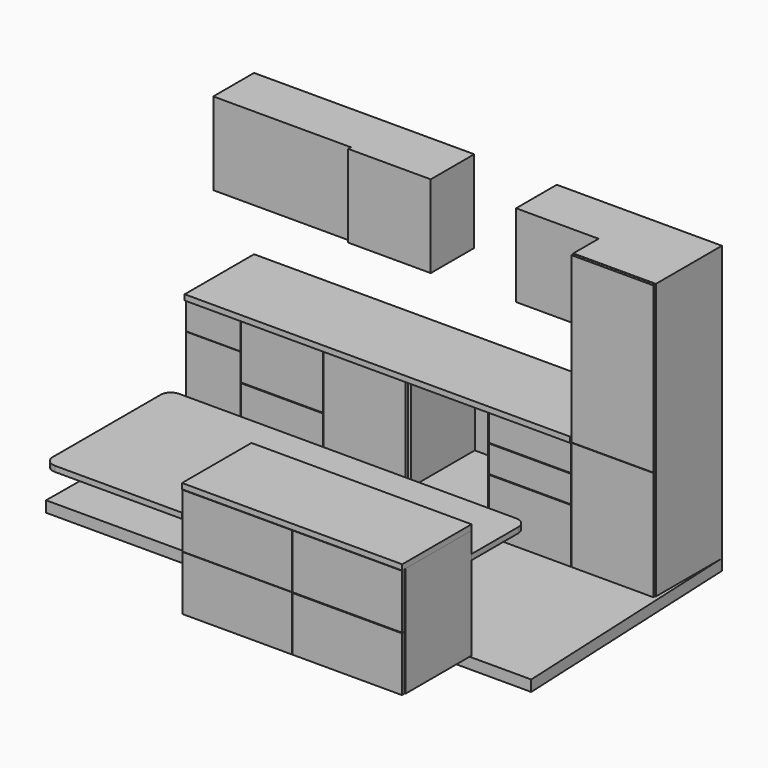
from build123d import *

# Parameters (mm, degrees)
F7_W      = 600
F7_H      = 600
F13_DEPTH = 2000
F8_W      = 600
F8_H      = 600
F14_DEPTH = 800
F9_W      = 600
F9_H      = 600
F15_DEPTH = 800
F10_W     = 600
F10_H     = 600
F16_DEPTH = 800
F11_W     = 600
F11_H     = 600
F17_DEPTH = 800
F12_W     = 400
F12_H     = 600
F18_DEPTH = 800
F23_W     = 400
F23_H     = 370
F24_DEPTH = 1200
F25_W     = 400
F25_H     = 600
F26_DEPTH = 370
F22_W     = 600
F22_H     = 370
F27_DEPTH = 600
F21_W     = 600
F21_H     = 370
F28_DEPTH = 600
F20_W     = 600
F20_H     = 370
F29_DEPTH = 600
F30_DEPTH = 20
F32_DEPTH = 20
F31_W     = 595
F31_H     = 795
F33_DEPTH = 20
F35_DEPTH = 20
F34_W     = 395
F34_H     = 595
F36_DEPTH = 20
F37_W     = 600
F37_H     = 400
F37_W_2   = 595
F37_H_2   = 395
F38_DEPTH = 20
F39_DEPTH = 20
F40_W     = 600
F40_H     = 800
F40_W_2   = 595
F40_H_2   = 795
F41_DEPTH = 20
F42_W     = 600
F42_H     = 400
F42_W_2   = 595
F42_H_2   = 395
F43_DEPTH = 20
F44_W     = 600
F44_H     = 200
F44_W_2   = 595
F44_H_2   = 195
F45_DEPTH = 20
F46_W     = 600
F46_H     = 200
F46_W_2   = 595
F46_H_2   = 195
F47_DEPTH = 20
F48_W     = 600
F48_H     = 100
F48_W_2   = 595
F48_H_2   = 95
F49_DEPTH = 20
F50_W     = 600
F50_H     = 700
F50_W_2   = 560
F50_H_2   = 660
F51_DEPTH = 20
F52_DEPTH = 25
F54_W     = 560
F54_H     = 660
F55_DEPTH = 580
F57_W     = 560
F57_H     = 270
F58_DEPTH = 350
F59_DEPTH = 350
F60_W     = 600
F60_H     = 600
F61_DEPTH = 25
F64_DEPTH = 80
F62_W     = 800
F62_H     = 600
F65_DEPTH = 800
F63_W     = 800
F63_H     = 600
F66_DEPTH = 800
F68_W     = 1600
F68_H     = 800
F69_DEPTH = 25
F70_DEPTH = 20
F71_W     = 800
F71_H     = 400
F71_W_2   = 795
F71_H_2   = 395
F72_DEPTH = 25
F74_DEPTH = 25
F75_W     = 800
F75_H     = 400
F75_W_2   = 795
F75_H_2   = 395
F76_DEPTH = 25
F77_W     = 800
F77_H     = 400
F77_W_2   = 795
F77_H_2   = 395
F78_DEPTH = 25
F80_W     = 2800
F80_H     = 630
F82_DEPTH = 40
F81_W     = 1600
F81_H     = 630
F83_DEPTH = 40
F86_DEPTH = 40


with BuildPart() as f13:
    # F7 (on offset) → F13 (new body)
    with BuildSketch(Plane.XY.offset(80)):
        with Locations((1415.9702295065, -525.4769355059)):
            Rectangle(F7_W, F7_H)
    extrude(amount=F13_DEPTH)

    # F8 (on offset) → F14 (join)
    with BuildSketch(Plane.XY.offset(80)):
        with Locations((815.9702295065, -525.4769355059)):
            Rectangle(F8_W, F8_H)
    extrude(amount=F14_DEPTH)

    # F9 (on offset) → F15 (join)
    with BuildSketch(Plane.XY.offset(80)):
        with Locations((215.9702295065, -525.4769355059)):
            Rectangle(F9_W, F9_H)
    extrude(amount=F15_DEPTH)

    # F10 (on offset) → F16 (join)
    with BuildSketch(Plane.XY.offset(80)):
        with Locations((-384.0297704935, -525.4769355059)):
            Rectangle(F10_W, F10_H)
    extrude(amount=F16_DEPTH)

    # F11 (on offset) → F17 (join)
    with BuildSketch(Plane.XY.offset(80)):
        with Locations((-984.0297704935, -525.4769355059)):
            Rectangle(F11_W, F11_H)
    extrude(amount=F17_DEPTH)

    # F12 (on offset) → F18 (join)
    with BuildSketch(Plane.XY.offset(80)):
        with Locations((-1484.0297704935, -525.4769355059)):
            Rectangle(F12_W, F12_H)
    extrude(amount=F18_DEPTH)

    # F23 (on face) → F24 (join)
    with BuildSketch(Plane.XY.offset(880)):
        with Locations((-1484.0297704935, -410.4769355059)):
            Rectangle(F23_W, F23_H)
    extrude(amount=F24_DEPTH)

    # F25 (on face) → F26 (cut)
    with BuildSketch(Plane.XZ.offset(595.4769355059)):
        with Locations((-1484.0297704935, 1180)):
            Rectangle(F25_W, F25_H)
    extrude(amount=-F26_DEPTH, mode=Mode.SUBTRACT)

    # F22 (on face) → F27 (join)
    with BuildSketch(Plane.XY.offset(2080)):
        with Locations((-984.0297704935, -410.4769355059)):
            Rectangle(F22_W, F22_H)
    extrude(amount=-F27_DEPTH)

    # F21 (on face) → F28 (join)
    with BuildSketch(Plane.XY.offset(2080)):
        with Locations((-384.0297704935, -410.4769355059)):
            Rectangle(F21_W, F21_H)
    extrude(amount=-F28_DEPTH)

    # F20 (on face) → F29 (join)
    with BuildSketch(Plane.XY.offset(2080)):
        with Locations((815.9702295065, -410.4769355059)):
            Rectangle(F20_W, F20_H)
    extrude(amount=-F29_DEPTH)


with BuildPart() as f30:
    # F30 (new): a face of the model
    f30_faces = [f13.part.faces().sort_by_distance(p)[0] for p in [
        (308.9934853204, -825.4769355059, 689.3023255814),
    ]]
    extrude(f30_faces, amount=F30_DEPTH)

    # F31 (on face) → F32 (cut)
    with BuildSketch(Plane.XZ.offset(845.4769355059)):
        Polygon((1715.9702295065, 880), (1715.9702295065, 2080), (1115.9702295065, 2080), (1115.9702295065, 880), (1118.4702295065, 880), (1118.4702295065, 2077.5), (1713.4702295065, 2077.5), (1713.4702295065, 880), align=None)
    extrude(amount=-F32_DEPTH, mode=Mode.SUBTRACT)

    # F31 (on face) → F33 (cut)
    with BuildSketch(Plane.XZ.offset(845.4769355059)):
        Polygon((1715.9702295065, 80), (1715.9702295065, 880), (1713.4702295065, 880), (1118.4702295065, 880), (1115.9702295065, 880), (1115.9702295065, 80), align=None)
        with Locations((1415.9702295065, 480)):
            Rectangle(F31_W, F31_H, mode=Mode.SUBTRACT)
    extrude(amount=-F33_DEPTH, mode=Mode.SUBTRACT)

    # F34 (on face) → F35 (cut)
    with BuildSketch(Plane.XZ.offset(845.4769355059)):
        Polygon((-1284.0297704935, 880), (-1684.0297704935, 880), (-1684.0297704935, 680), (-1681.5297704935, 680), (-1681.5297704935, 877.5), (-1286.5297704935, 877.5), (-1286.5297704935, 680), (-1284.0297704935, 680), align=None)
    extrude(amount=-F35_DEPTH, mode=Mode.SUBTRACT)

    # F34 (on face) → F36 (cut)
    with BuildSketch(Plane.XZ.offset(845.4769355059)):
        Polygon((-1681.5297704935, 680), (-1684.0297704935, 680), (-1684.0297704935, 80), (-1284.0297704935, 80), (-1284.0297704935, 680), (-1286.5297704935, 680), align=None)
        with Locations((-1484.0297704935, 380)):
            Rectangle(F34_W, F34_H, mode=Mode.SUBTRACT)
    extrude(amount=-F36_DEPTH, mode=Mode.SUBTRACT)

    # F37 (on face) → F38 (cut)
    with BuildSketch(Plane.XZ.offset(845.4769355059)):
        with Locations((-984.0297704935, 680)):
            Rectangle(F37_W, F37_H)
        with Locations((-984.0297704935, 680)):
            Rectangle(F37_W_2, F37_H_2, mode=Mode.SUBTRACT)
    extrude(amount=-F38_DEPTH, mode=Mode.SUBTRACT)

    # F37 (on face) → F39 (cut)
    with BuildSketch(Plane.XZ.offset(845.4769355059)):
        with Locations((-984.0297704935, 280)):
            Rectangle(F37_W, F37_H)
        with Locations((-984.0297704935, 280)):
            Rectangle(F37_W_2, F37_H_2, mode=Mode.SUBTRACT)
    extrude(amount=-F39_DEPTH, mode=Mode.SUBTRACT)

    # F40 (on face) → F41 (cut)
    with BuildSketch(Plane.XZ.offset(845.4769355059)):
        with Locations((-384.0297704935, 480)):
            Rectangle(F40_W, F40_H)
        with Locations((-384.0297704935, 480)):
            Rectangle(F40_W_2, F40_H_2, mode=Mode.SUBTRACT)
    extrude(amount=-F41_DEPTH, mode=Mode.SUBTRACT)

    # F42 (on face) → F43 (cut)
    with BuildSketch(Plane.XZ.offset(845.4769355059)):
        with Locations((815.9702295065, 280)):
            Rectangle(F42_W, F42_H)
        with Locations((815.9702295065, 280)):
            Rectangle(F42_W_2, F42_H_2, mode=Mode.SUBTRACT)
    extrude(amount=-F43_DEPTH, mode=Mode.SUBTRACT)

    # F44 (on face) → F45 (cut)
    with BuildSketch(Plane.XZ.offset(845.4769355059)):
        with Locations((815.9702295065, 580)):
            Rectangle(F44_W, F44_H)
        with Locations((815.9702295065, 580)):
            Rectangle(F44_W_2, F44_H_2, mode=Mode.SUBTRACT)
    extrude(amount=-F45_DEPTH, mode=Mode.SUBTRACT)

    # F46 (on face) → F47 (cut)
    with BuildSketch(Plane.XZ.offset(845.4769355059)):
        with Locations((815.9702295065, 780)):
            Rectangle(F46_W, F46_H)
        with Locations((815.9702295065, 780)):
            Rectangle(F46_W_2, F46_H_2, mode=Mode.SUBTRACT)
    extrude(amount=-F47_DEPTH, mode=Mode.SUBTRACT)

    # F48 (on face) → F49 (cut)
    with BuildSketch(Plane.XZ.offset(845.4769355059)):
        with Locations((215.9702295065, 130)):
            Rectangle(F48_W, F48_H)
        with Locations((215.9702295065, 130)):
            Rectangle(F48_W_2, F48_H_2, mode=Mode.SUBTRACT)
    extrude(amount=-F49_DEPTH, mode=Mode.SUBTRACT)

    # F50 (on face) → F51 (cut)
    with BuildSketch(Plane.XZ.offset(845.4769355059)):
        with Locations((215.9702295065, 530)):
            Rectangle(F50_W, F50_H)
        with Locations((215.9702295065, 530)):
            Rectangle(F50_W_2, F50_H_2, mode=Mode.SUBTRACT)
    extrude(amount=-F51_DEPTH, mode=Mode.SUBTRACT)


with BuildPart() as f52_tool:
    # F50 (on face) → F52 (new body)
    with BuildSketch(Plane.XZ.offset(845.4769355059)):
        with Locations((215.9702295065, 530)):
            Rectangle(F50_W_2, F50_H_2)
    extrude(amount=-F52_DEPTH)


with BuildPart() as f13_1:
    add(f13.part)

    # F52: cut by f52_tool
    add(f52_tool.part, mode=Mode.SUBTRACT)

    # F54 (on offset) → F55 (cut)
    with BuildSketch(Plane.XZ.offset(825.4769355059)):
        with Locations((215.9702295065, 530)):
            Rectangle(F54_W, F54_H)
    extrude(amount=-F55_DEPTH, mode=Mode.SUBTRACT)

    # F57 (on face) → F58 (cut)
    with BuildSketch(Plane.XZ.offset(595.4769355059)):
        with Locations((-384.0297704935, 1925)):
            Rectangle(F57_W, F57_H)
    extrude(amount=-F58_DEPTH, mode=Mode.SUBTRACT)

    # F57 (on face) → F59 (cut)
    with BuildSketch(Plane.XZ.offset(595.4769355059)):
        with Locations((-384.0297704935, 1635)):
            Rectangle(F57_W, F57_H)
    extrude(amount=-F59_DEPTH, mode=Mode.SUBTRACT)

    # F60 (on face) → F61 (join)
    with BuildSketch(Plane.XZ.offset(595.4769355059)):
        with Locations((-384.0297704935, 1780)):
            Rectangle(F60_W, F60_H)
    extrude(amount=F61_DEPTH)

    # F0 (on Top) → F64 (join)
    with BuildSketch(Plane.XY):
        Polygon((1800.7225357622, -2063.5498418479), (1715.9702295065, -225.4769355059), (-1714.0297704935, -225.4769355059), (-1724.7334718704, -2063.5498418479), align=None)
    extrude(amount=F64_DEPTH)

    # F62 (on offset) → F65 (join)
    with BuildSketch(Plane.XY.offset(80)):
        with Locations((952.9347419739, -2345.6193135348)):
            Rectangle(F62_W, F62_H)
    extrude(amount=F65_DEPTH)

    # F63 (on offset) → F66 (join)
    with BuildSketch(Plane.XY.offset(80)):
        with Locations((152.9347419739, -2345.6193135348)):
            Rectangle(F63_W, F63_H)
    extrude(amount=F66_DEPTH)


with BuildPart() as f30_1:
    add(f30.part)

    # F52: cut by f52_tool
    add(f52_tool.part, mode=Mode.SUBTRACT)


with BuildPart() as f69:
    # F68 (on offset) → F69 (new body)
    with BuildSketch(Plane.XZ.offset(2650.6193135348)):
        with Locations((552.9347419739, 480)):
            Rectangle(F68_W, F68_H)
    extrude(amount=F69_DEPTH)

    # F68 (on offset) → F70 (join)
    with BuildSketch(Plane.XZ.offset(2650.6193135348)):
        with Locations((552.9347419739, 480)):
            Rectangle(F68_W, F68_H)
    extrude(amount=F70_DEPTH)

    # F71 (on face) → F72 (cut)
    with BuildSketch(Plane.XZ.offset(2675.6193135348)):
        with Locations((152.9347419739, 680)):
            Rectangle(F71_W, F71_H)
        with Locations((152.9347419739, 680)):
            Rectangle(F71_W_2, F71_H_2, mode=Mode.SUBTRACT)
    extrude(amount=-F72_DEPTH, mode=Mode.SUBTRACT)

    # F73 (on face) → F74 (cut)
    with BuildSketch(Plane.XZ.offset(2675.6193135348)):
        Polygon((-244.5652580261, 480), (-247.0652580261, 480), (-247.0652580261, 80), (552.9347419739, 80), (552.9347419739, 480), (550.4347419739, 480), (550.4347419739, 82.5), (-244.5652580261, 82.5), align=None)
    extrude(amount=-F74_DEPTH, mode=Mode.SUBTRACT)

    # F75 (on face) → F76 (cut)
    with BuildSketch(Plane.XZ.offset(2675.6193135348)):
        with Locations((952.9347419739, 680)):
            Rectangle(F75_W, F75_H)
        with Locations((952.9347419739, 680)):
            Rectangle(F75_W_2, F75_H_2, mode=Mode.SUBTRACT)
    extrude(amount=-F76_DEPTH, mode=Mode.SUBTRACT)

    # F77 (on face) → F78 (cut)
    with BuildSketch(Plane.XZ.offset(2675.6193135348)):
        with Locations((952.9347419739, 280)):
            Rectangle(F77_W, F77_H)
        with Locations((952.9347419739, 280)):
            Rectangle(F77_W_2, F77_H_2, mode=Mode.SUBTRACT)
    extrude(amount=-F78_DEPTH, mode=Mode.SUBTRACT)


with BuildPart() as f82:
    # F80 (on face) → F82 (new body)
    with BuildSketch(Plane.XY.offset(880)):
        with Locations((-284.0297704935, -540.4769355059)):
            Rectangle(F80_W, F80_H)
    extrude(amount=F82_DEPTH)


with BuildPart() as f83:
    # F81 (on face) → F83 (new body)
    with BuildSketch(Plane.XY.offset(880)):
        with Locations((552.9347419739, -2360.6193135348)):
            Rectangle(F81_W, F81_H)
    extrude(amount=F83_DEPTH)


with BuildPart() as f86:
    # F85 (on offset) → F86 (new body)
    with BuildSketch(Plane.XY.offset(730)):
        with BuildLine():
            Line((-247.0652580261, -2045.6193135348), (1352.9347419739, -2045.6193135348))
            Line((1352.9347419739, -2045.6193135348), (1352.9347419739, -1695.6193135348))
            Line((1352.9347419739, -1695.6193135348), (1352.9347419739, -1620.6193135348))
            ThreePointArc((1352.9347419739, -1620.6193135348), (1330.9677505629, -1567.5863049458), (1277.9347419739, -1545.6193135348))
            Line((1277.9347419739, -1545.6193135348), (1202.9347419739, -1545.6193135348))
            Line((1202.9347419739, -1545.6193135348), (-1097.0652580261, -1545.6193135348))
            Line((-1097.0652580261, -1545.6193135348), (-1172.0652580261, -1545.6193135348))
            ThreePointArc((-1172.0652580261, -1545.6193135348), (-1225.0982666151, -1567.5863049458), (-1247.0652580261, -1620.6193135348))
            Line((-1247.0652580261, -1620.6193135348), (-1247.0652580261, -1695.6193135348))
            Line((-1247.0652580261, -1695.6193135348), (-1247.0652580261, -2525.6193135348))
            Line((-1247.0652580261, -2525.6193135348), (-1247.0652580261, -2600.6193135348))
            ThreePointArc((-1247.0652580261, -2600.6193135348), (-1225.0982666151, -2653.6523221238), (-1172.0652580261, -2675.6193135348))
            Line((-1172.0652580261, -2675.6193135348), (-1097.0652580261, -2675.6193135348))
            Line((-1097.0652580261, -2675.6193135348), (-247.0652580261, -2675.6193135348))
            Line((-247.0652580261, -2675.6193135348), (-247.0652580261, -2045.6193135348))
        make_face()
    extrude(amount=-F86_DEPTH)


solid = Compound([f13_1.part, f30_1.part, f69.part, f82.part, f83.part, f86.part])
